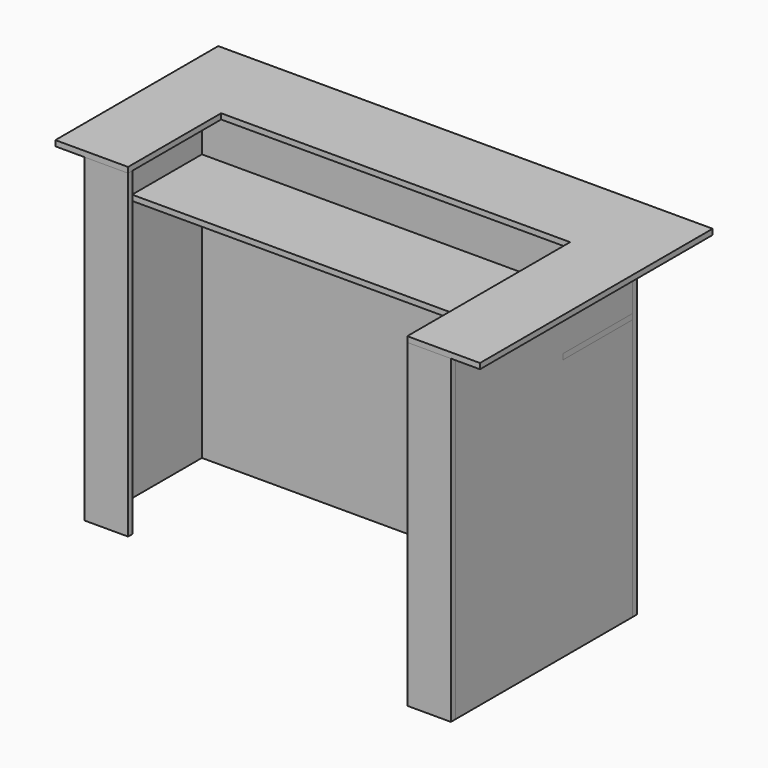
from build123d import *

# Parameters (mm, degrees)
F0_W      = 250
F0_H      = 400
F0_H_2    = 700
F1_DEPTH  = 19
F2_W      = 150
F2_H      = 1100
F3_DEPTH  = 19
F4_W      = 150
F4_H      = 1100
F5_DEPTH  = 19
F6_W      = 762
F6_H      = 1100
F7_DEPTH  = 19
F8_W      = 462
F8_H      = 1100
F9_DEPTH  = 19
F10_W     = 1499.8221993446
F10_H     = 1100
F11_DEPTH = 19
F12_W     = 1499.8221993446
F12_H     = 19
F13_DEPTH = 300


with BuildPart() as f1:
    # F0 (on Top) → F1 (new body)
    with BuildSketch(Plane.XY):
        Polygon((-833.4551215172, -280.901658535), (-833.4551215172, -580.901658535), (-583.4551215172, -580.901658535), (616.5448784828, -580.901658535), (866.5448784828, -580.901658535), (866.5448784828, -280.901658535), align=None)
        with Locations((-708.4551215172, -780.901658535)):
            Rectangle(F0_W, F0_H)
        with Locations((741.5448784828, -930.901658535)):
            Rectangle(F0_W, F0_H_2)
    extrude(amount=F1_DEPTH)

    # F6 (on face) → F7 (join)
    with BuildSketch(Plane.YZ.offset(766.5448784828)):
        with Locations((-880.901658535, -550)):
            Rectangle(F6_W, F6_H)
    extrude(amount=-F7_DEPTH)


with BuildPart() as f3:
    # F2 (on face) → F3 (new body)
    with BuildSketch(Plane.XZ.offset(1280.901658535)):
        with Locations((691.5448784828, -550)):
            Rectangle(F2_W, F2_H)
    extrude(amount=-F3_DEPTH)


with BuildPart() as f5:
    # F4 (on face) → F5 (new body)
    with BuildSketch(Plane.XZ.offset(980.901658535)):
        with Locations((-658.4551215172, -550)):
            Rectangle(F4_W, F4_H)
    extrude(amount=-F5_DEPTH)


with BuildPart() as f9:
    # F8 (on face) → F9 (new body)
    with BuildSketch(Plane(origin=(-733.4551215172, 0, 0), x_dir=(0, -1, 0), z_dir=(-1, 0, 0))):
        with Locations((730.901658535, -550)):
            Rectangle(F8_W, F8_H)
    extrude(amount=-F9_DEPTH)


with BuildPart() as f11:
    # F10 (on face) → F11 (new body)
    with BuildSketch(Plane(origin=(0, -499.901658535, 0), x_dir=(-1, 0, 0), z_dir=(0, 1, 0))):
        with Locations((-16.6337788105, -550)):
            Rectangle(F10_W, F10_H)
    extrude(amount=F11_DEPTH)


with BuildPart() as f13:
    # F12 (on face) → F13 (new body)
    with BuildSketch(Plane.XZ.offset(499.901658535)):
        with Locations((16.6337788105, -190.5)):
            Rectangle(F12_W, F12_H)
    extrude(amount=F13_DEPTH)


solid = Compound([f1.part, f3.part, f5.part, f9.part, f11.part, f13.part])
